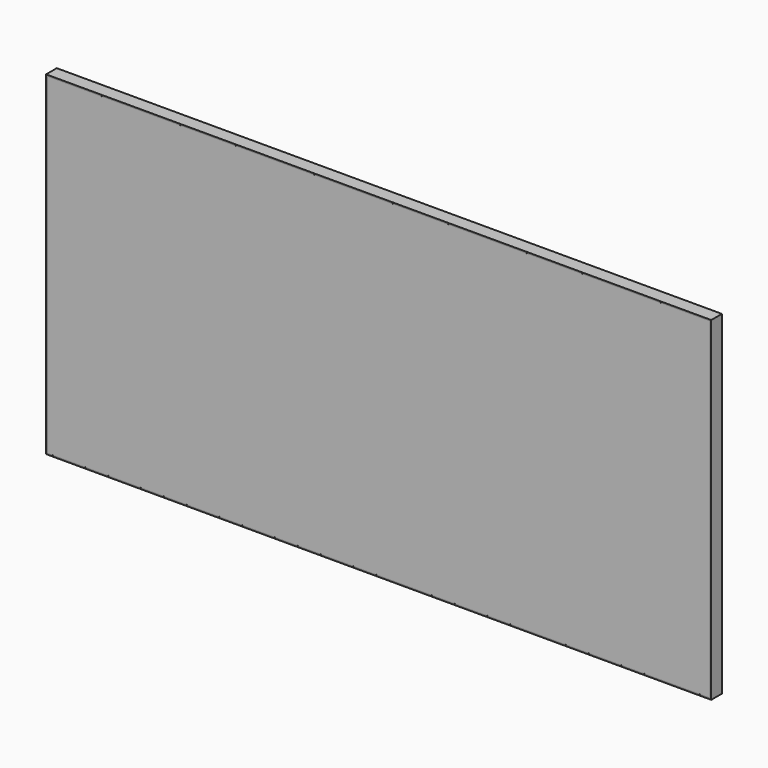
from build123d import *

# Parameters (mm, degrees)
F0_W     = 1987.55
F0_H     = 39.878
F1_DEPTH = 998.982
F2_W     = 1917.446
F2_H     = 928.878
F3_DEPTH = 35.052
F4_W     = 1987.55
F4_H     = 998.982
F4_W_2   = 1980.438
F4_H_2   = 991.87
F5_DEPTH = 39.878
F6_W     = 1987.406373
F6_H     = 999.029934
F6_W_2   = 1980.433064
F6_H_2   = 991.901092
F7_DEPTH = 39.878


with BuildPart() as f1:
    # F0 (on Top) → F1 (new body)
    with BuildSketch(Plane.XY):
        with Locations((993.775, 19.939)):
            Rectangle(F0_W, F0_H)
    extrude(amount=F1_DEPTH)

    # F2 (on face) → F3 (cut)
    with BuildSketch(Plane(origin=(0, 39.878, 0), x_dir=(-1, 0, 0), z_dir=(0, 1, 0))):
        with Locations((-993.775, 499.491)):
            Rectangle(F2_W, F2_H)
    extrude(amount=-F3_DEPTH, mode=Mode.SUBTRACT)

    # F4 (on face) → F5 (cut)
    with BuildSketch(Plane.XZ):
        with Locations((993.775, 499.491)):
            Rectangle(F4_W, F4_H)
        with Locations((993.775, 499.491)):
            Rectangle(F4_W_2, F4_H_2, mode=Mode.SUBTRACT)
    extrude(amount=-F5_DEPTH, mode=Mode.SUBTRACT)


with BuildPart() as f7:
    # F6 (on face) → F7 (new body)
    with BuildSketch(Plane.XZ):
        with Locations((993.703186, 499.514967)):
            Rectangle(F6_W, F6_H)
        with Locations((993.77831, 499.48505)):
            Rectangle(F6_W_2, F6_H_2, mode=Mode.SUBTRACT)
    extrude(amount=-F7_DEPTH)


solid = Compound([f1.part, f7.part])
